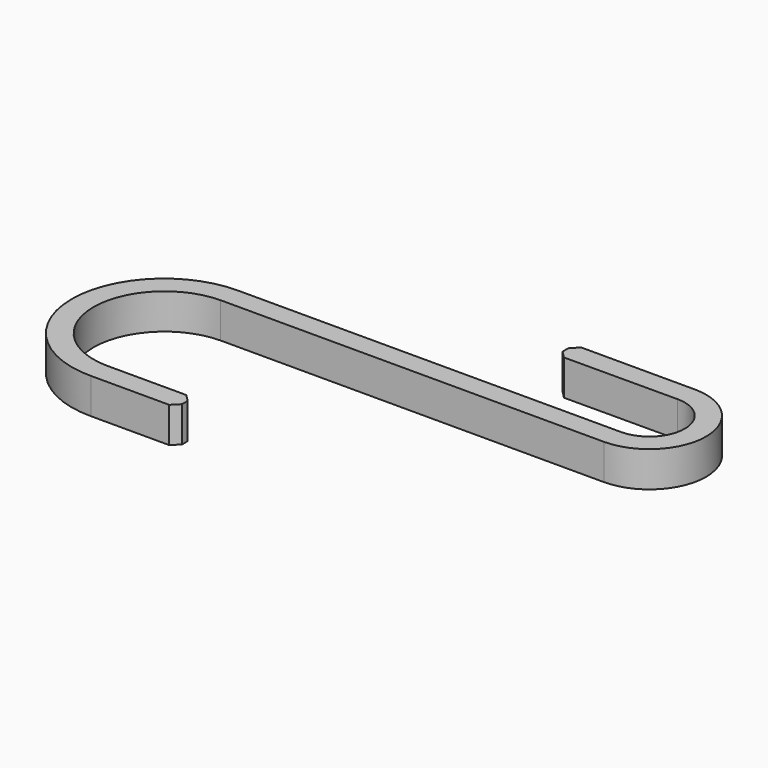
from build123d import *

# Parameters (mm, degrees)
PAD_DEPTH    = 5
CHAMFER_SIZE = 1


with BuildPart() as part:
    # Sketch → Pad (new body)
    with BuildSketch(Plane.XY):
        with BuildLine():
            Line((-27.004105, 1.5), (27.004105, 1.5))
            ThreePointArc((27.004105, 1.5), (31.989773, 6.514332), (26.975441, 11.5))
            Line((26.975441, 11.5), (10.000461, 11.451343))
            Line((10.000461, 11.451343), (10.000461, 14.500006))
            Line((10.000461, 14.500006), (27.000461, 14.500006))
            ThreePointArc((27.004105, -1.5), (34.989786, 6.501822), (27.000461, 14.500006))
            Line((-27.016258, -1.5), (27.004105, -1.5))
            ThreePointArc((-27.016258, -1.5), (-36.936523, -11.509751), (-26.996758, -21.500137))
            Line((-26.996758, -21.500137), (-14.868309, -21.500137))
            Line((-14.868309, -21.500137), (-14.868309, -24.5))
            Line((-14.868309, -24.5), (-26.868309, -24.5))
            ThreePointArc((-27.004105, 1.5), (-40.004282, -11.568254), (-26.868309, -24.5))
        make_face()
    extrude(amount=PAD_DEPTH)

    # Chamfer
    chamfer_edges = [part.edges().sort_by_distance(p)[0] for p in [
        (-14.868309, -21.500137, 2.5),
        (-14.868309, -24.5, 2.5),
        (10.000461, 11.451343, 2.5),
        (10.000461, 14.500006, 2.5),
    ]]
    chamfer(chamfer_edges, length=CHAMFER_SIZE)


solid = part.part
